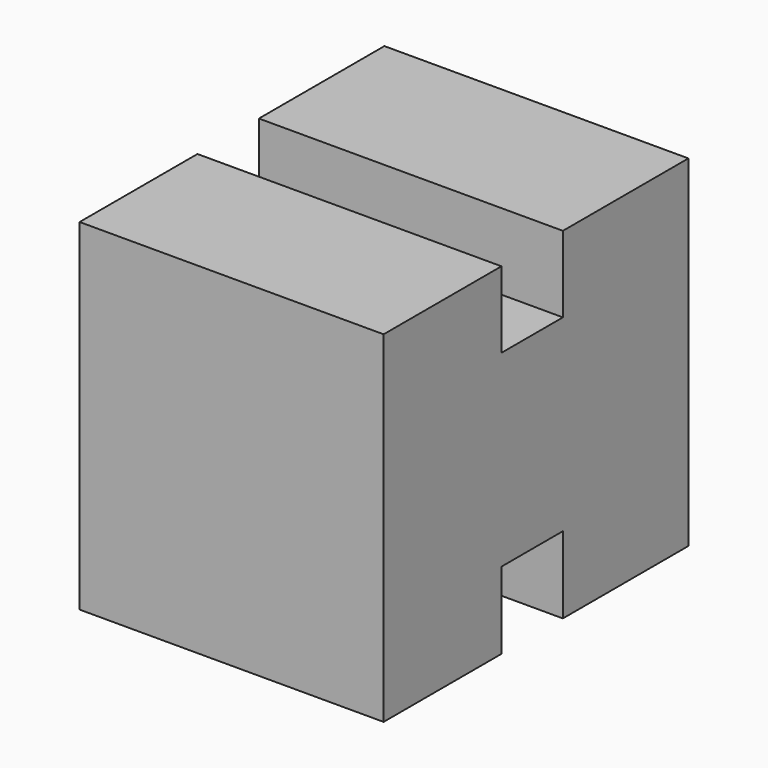
from build123d import *

# Parameters (mm, degrees)
F0_W     = 50.9128235281
F0_H     = 63.8054171577
F1_DEPTH = 57.15
F2_W     = 12.8643363714
F2_H     = 12.7601113558
F3_DEPTH = 76.2
F4_W     = 12.8961652517
F4_H     = 12.868527323
F5_DEPTH = 76.2


with BuildPart() as f1:
    # F0 (on Top) → F1 (new body)
    with BuildSketch(Plane.XY):
        with Locations((-62.0051566511, 23.6927601509)):
            Rectangle(F0_W, F0_H)
    extrude(amount=F1_DEPTH)

    # F2 (on face) → F3 (cut)
    with BuildSketch(Plane(origin=(-87.4615684152, 0, 0), x_dir=(0, -1, 0), z_dir=(-1, 0, 0))):
        with Locations((-22.8889267892, 50.7699443221)):
            Rectangle(F2_W, F2_H)
    extrude(amount=-F3_DEPTH, mode=Mode.SUBTRACT)

    # F4 (on face) → F5 (cut)
    with BuildSketch(Plane(origin=(-87.4615684152, 0, 0), x_dir=(0, -1, 0), z_dir=(-1, 0, 0))):
        with Locations((-22.873012349, 6.4342636615)):
            Rectangle(F4_W, F4_H)
    extrude(amount=-F5_DEPTH, mode=Mode.SUBTRACT)


solid = f1.part
